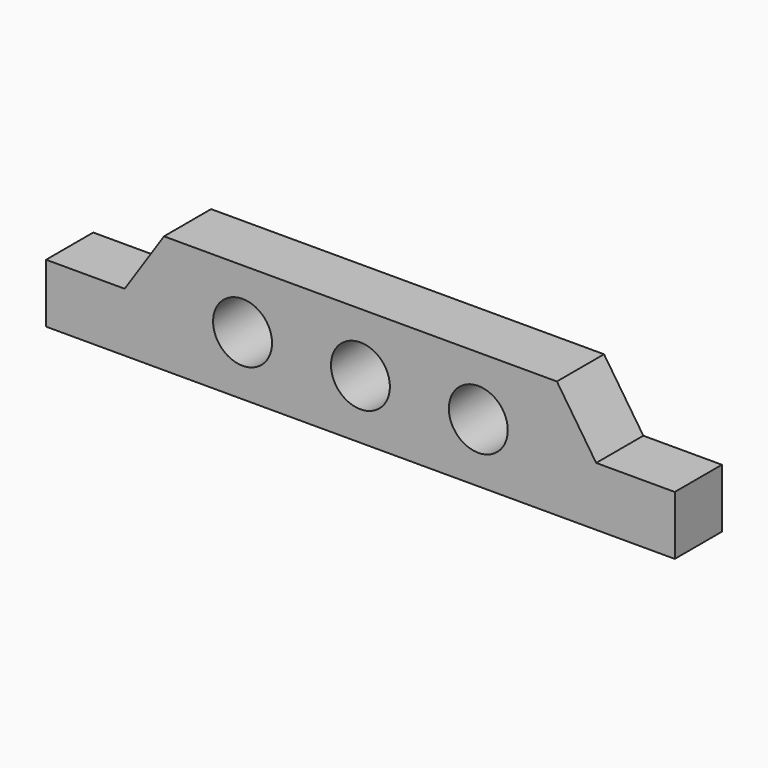
from build123d import *

# Parameters (mm, degrees)
F0_R     = 9.525
F1_DEPTH = 19.05


with BuildPart() as f1:
    # F0 (on Front) → F1 (new body)
    with BuildSketch(Plane.XZ):
        Polygon((-96.520004, 19.05), (-96.520004, 0), (106.679996, 0), (106.679996, 19.05), (81.279996, 19.05), (68.579996, 38.1), (-58.420004, 38.1), (-71.120004, 19.05), align=None)
        with Locations((-33.020004, 19.05)):
            Circle(F0_R, mode=Mode.SUBTRACT)
        with Locations((5.079996, 19.05)):
            Circle(F0_R, mode=Mode.SUBTRACT)
        with Locations((43.179996, 19.05)):
            Circle(F0_R, mode=Mode.SUBTRACT)
    extrude(amount=-F1_DEPTH)


solid = f1.part
